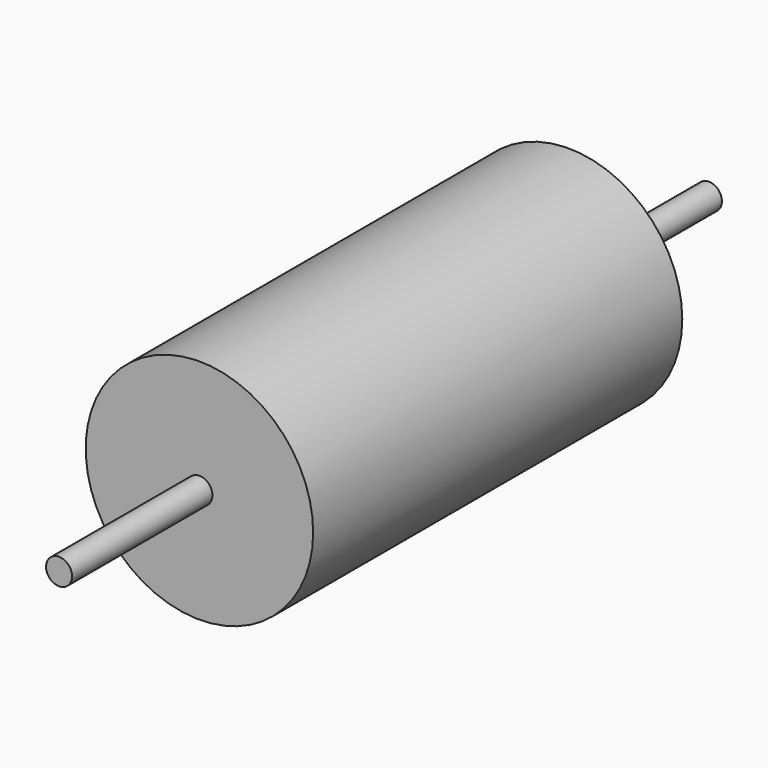
from build123d import *

# Parameters (mm, degrees)
F0_R     = 4
F1_DEPTH = 250
F2_START = 54
F0_R_2   = 35
F2_DEPTH = 142


with BuildPart() as f1:
    # F0 (on Front) → F1 (new body)
    with BuildSketch(Plane.XZ):
        Circle(F0_R)
    extrude(amount=F1_DEPTH)

    # F0 (on Front) → F2 (join)
    with BuildSketch(Plane.XZ.offset(F2_START)):
        Circle(F0_R_2)
        Circle(F0_R, mode=Mode.SUBTRACT)
    extrude(amount=F2_DEPTH)


solid = f1.part
